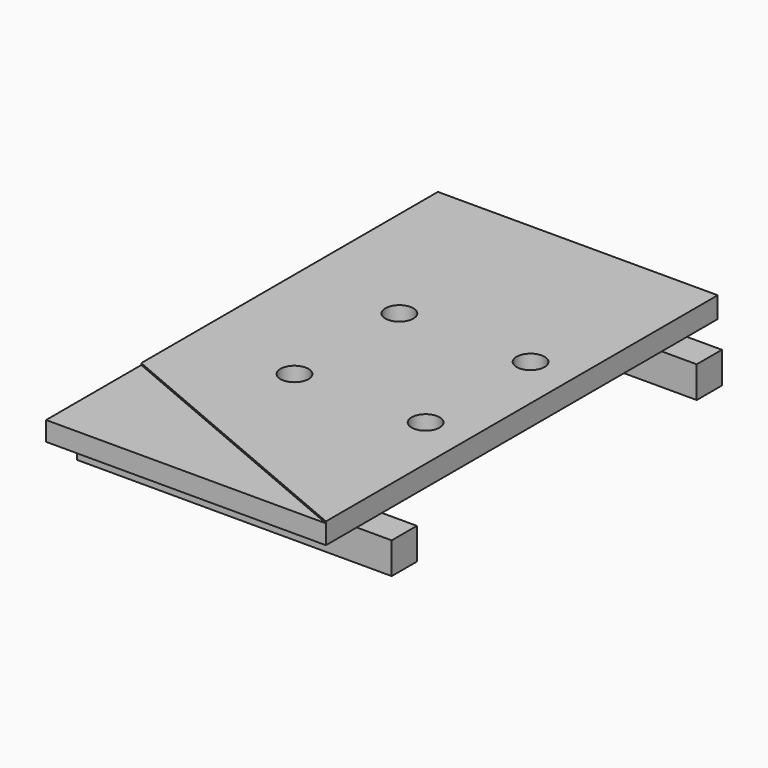
from build123d import *

# Parameters (mm, degrees)
PAD_DEPTH       = 12
POCKET_DEPTH    = 1
SKETCH003_R     = 8
POCKET001_DEPTH = 12.001
SKETCH004_W     = 180
SKETCH004_H     = 18
PAD001_DEPTH    = 18


with BuildPart() as part:
    # Sketch → Pad (new body)
    with BuildSketch(Plane.XY):
        Polygon((0, 0), (0, 140), (160, 140), (160, -140), (0, -140), align=None)
    extrude(amount=PAD_DEPTH)

    # Sketch002 (on Face7 of Pad) → Pocket (cut)
    with BuildSketch(Plane.XY.offset(12)):
        Polygon((0, -140), (0, -71.973152), (160, -140), align=None)
    extrude(amount=-POCKET_DEPTH, mode=Mode.SUBTRACT)

    # Sketch003 (on Face5 of Pocket) → Pocket001 (cut, through all)
    with BuildSketch(Plane.XY.offset(12)):
        with Locations((60, 37.5)):
            Circle(SKETCH003_R)
        with Locations((135, 37.5)):
            Circle(SKETCH003_R)
        with Locations((135, -37.5)):
            Circle(SKETCH003_R)
        with Locations((60, -37.5)):
            Circle(SKETCH003_R)
    extrude(amount=-POCKET001_DEPTH, mode=Mode.SUBTRACT)

    # Sketch004 (on Face4 of Pocket001) → Pad001 (join)
    with BuildSketch(Plane(origin=(0, 0, 0), x_dir=(1, 0, 0), z_dir=(0, 0, -1))):
        with Locations((90, 109)):
            Rectangle(SKETCH004_W, SKETCH004_H)
        with Locations((90, -109)):
            Rectangle(SKETCH004_W, SKETCH004_H)
    extrude(amount=PAD001_DEPTH)


solid = part.part
